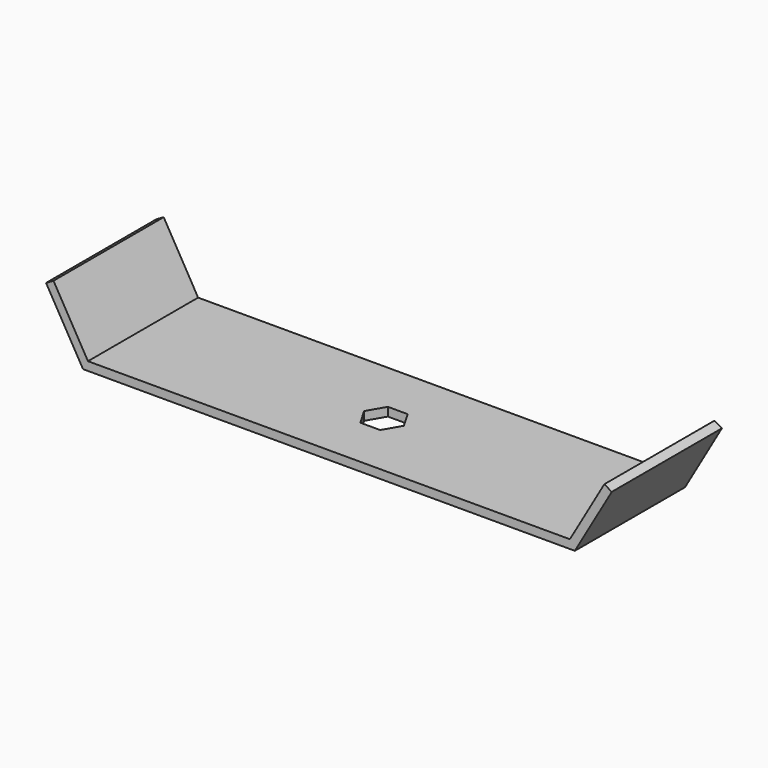
from build123d import *

# Parameters (mm, degrees)
F0_W     = 177.8
F0_H     = 50.8
F1_DEPTH = 3.175
F3_DEPTH = 25.4


with BuildPart() as f1:
    # F0 (on Top) → F1 (new body)
    with BuildSketch(Plane.XY):
        Rectangle(F0_W, F0_H)
        Polygon((-3.666174, -6.35), (-7.332348, 0), (-3.666174, 6.35), (3.666174, 6.35), (7.332348, 0), (3.666174, -6.35), align=None, mode=Mode.SUBTRACT)
    extrude(amount=F1_DEPTH)

    # F2 (on Front) → F3 (join, symmetric)
    with BuildSketch(Plane.XZ):
        Polygon((-104.349631, 23.584545), (-90.733087, 0), (-88.9, 0), (-88.9, 3.175), (-101.6, 25.172045), align=None)
        Polygon((104.349631, 23.584545), (101.6, 25.172045), (88.9, 3.175), (88.9, 0), (90.733087, 0), align=None)
    extrude(amount=F3_DEPTH, both=True)


solid = f1.part
